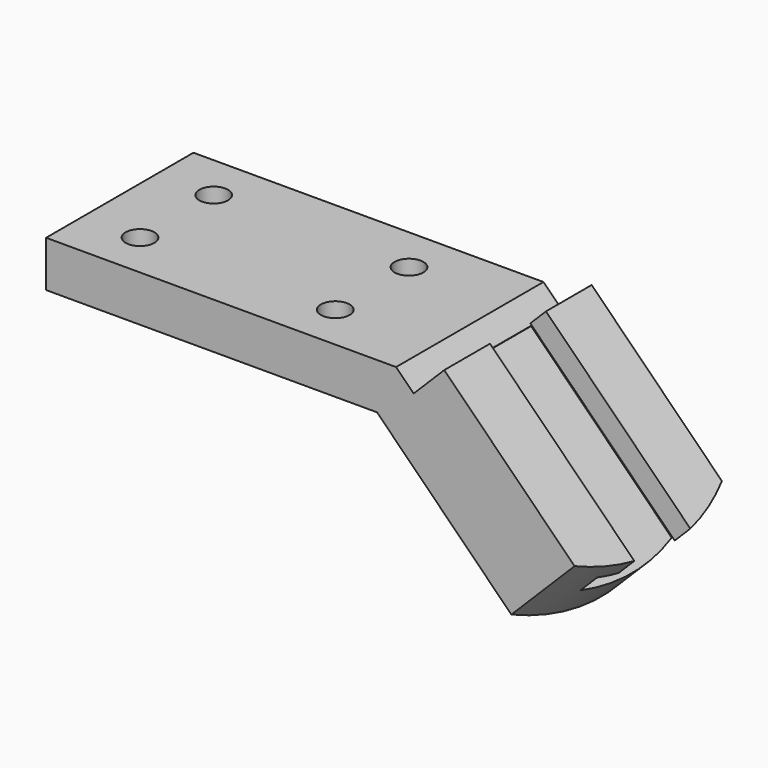
from build123d import *

# Parameters (mm, degrees)
F1_DEPTH        = 50.8
F3_DEPTH        = 12.7
F5_DEPTH        = 11.938
F7_DEPTH        = 76.2
F8_R            = 6.35
F9_DEPTH        = 6.096
F11_D           = 7.9248
F11_CBORE_D     = 12.7
F11_CBORE_DEPTH = 6.096


with BuildPart() as f1:
    # F0 (on Front) → F1 (new body)
    with BuildSketch(Plane.XZ):
        Polygon((0, 12.7), (0, 0), (91.2594877579, 0), (87.5397438789, 3.7197438789), (96.52, 12.7), align=None)
        Polygon((87.5397438789, 3.7197438789), (91.2594877579, 0), (96.52, 0), (96.52, 12.7), align=None)
        Polygon((96.52, 0), (91.2594877579, 0), (128.3101066686, -37.0506189107), (137.2903627897, -28.0703627897), (96.52, 12.7), align=None)
    extrude(amount=F1_DEPTH)

    # F2 (on face) → F3 (join)
    with BuildSketch(Plane(origin=(54.61, 0, 54.61), x_dir=(0.7071067812, 0, -0.7071067812), z_dir=(0.7071067812, 0, 0.7071067812))):
        with BuildLine():
            Line((116.9276903991, 0), (116.9276903991, -50.8))
            ThreePointArc((116.9276903991, -50.8), (123.2946720443, -25.4), (116.9276903991, 0))
        make_face()
    extrude(amount=-F3_DEPTH)

    # F4 (on face) → F5 (join)
    with BuildSketch(Plane(origin=(54.61, 0, 54.61), x_dir=(0.7071067812, 0, -0.7071067812), z_dir=(0.7071067812, 0, 0.7071067812))):
        with BuildLine():
            Line((66.1276903991, -50.8), (116.9276903991, -50.8))
            ThreePointArc((116.9276903991, -50.8), (123.2946720443, -25.4), (116.9276903991, 0))
            Line((116.9276903991, 0), (66.1276903991, 0))
            Line((66.1276903991, 0), (66.1276903991, -50.8))
        make_face()
    extrude(amount=F5_DEPTH)

    # F6 (on face) → F7 (cut)
    with BuildSketch(Plane(origin=(46.7593383054, 0, -46.7593383054), x_dir=(0, -1, 0), z_dir=(-0.7071067812, 0, 0.7071067812))):
        Polygon((35.052, 89.1682026412), (25.4, 89.1682026412), (15.748, 89.1682026412), (15.748, 83.0722026412), (9.652, 83.0722026412), (9.652, 76.4682026412), (41.148, 76.4682026412), (41.148, 83.0722026412), (35.052, 83.0722026412), align=None)
    extrude(amount=-F7_DEPTH, mode=Mode.SUBTRACT)

    # F8 (on face) → F9 (cut)
    with BuildSketch(Plane(origin=(0, 0, 0), x_dir=(1, 0, 0), z_dir=(0, 0, -1))):
        with Locations((15.748, 38.1)):
            Circle(F8_R)
        with Locations((15.748, 12.7030098811)):
            Circle(F8_R)
        with Locations((69.596, 38.1)):
            Circle(F8_R)
        with Locations((69.596, 12.7030098811)):
            Circle(F8_R)
    extrude(amount=-F9_DEPTH, mode=Mode.SUBTRACT)

    # F11 (through all)
    with Locations(Plane(origin=(0, 0, 0), x_dir=(1, 0, 0), z_dir=(0, 0, -1))):
        with Locations((15.748, 38.1), (69.596, 38.1), (69.596, 12.7030098811), (15.748, 12.7030098811)):
            CounterBoreHole(F11_D / 2, F11_CBORE_D / 2, F11_CBORE_DEPTH)


solid = f1.part
